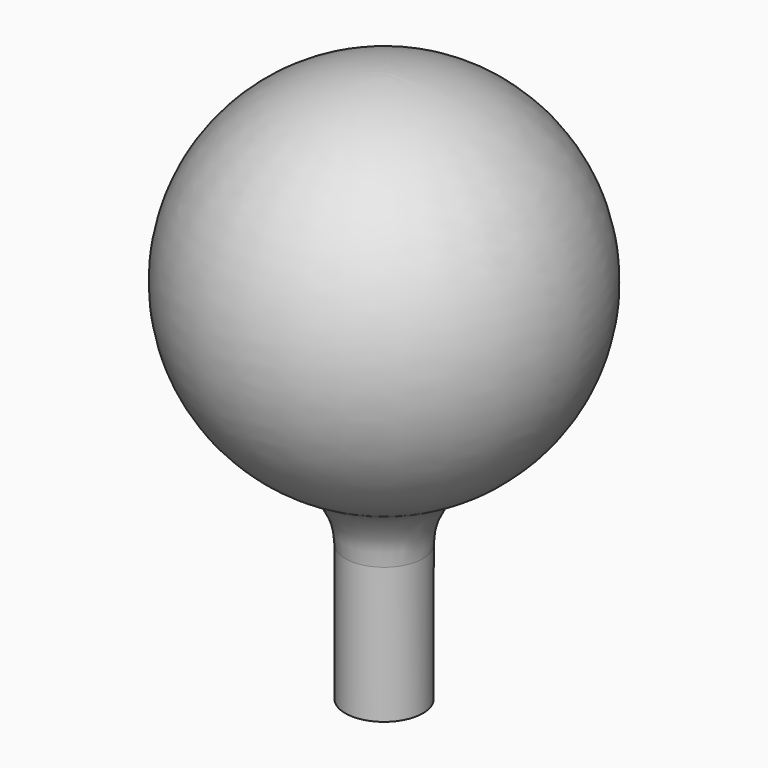
from build123d import *

# Parameters (mm, degrees)
F2_R = 2


with BuildPart() as f1:
    # F0 (on Front) → F1 (revolve)
    with BuildSketch(Plane.XZ):
        with BuildLine():
            Line((1.055138, -10), (1.055138, -4.887401))
            ThreePointArc((1.055138, -4.887401), (4.97177, 0.530564), (0, 5))
            Line((0, 5), (0, -10))
            Line((0, -10), (1.055138, -10))
        make_face()
    revolve(axis=Axis((0, 0, -6.689097), (0, 0, -1)))

    # F2
    f2_edges = [f1.edges().sort_by_distance(p)[0] for p in [
        (-1.055138, 0, -4.887401),
        (4.97177, 0, 0.530564),
    ]]
    fillet(f2_edges, radius=F2_R)


solid = f1.part
